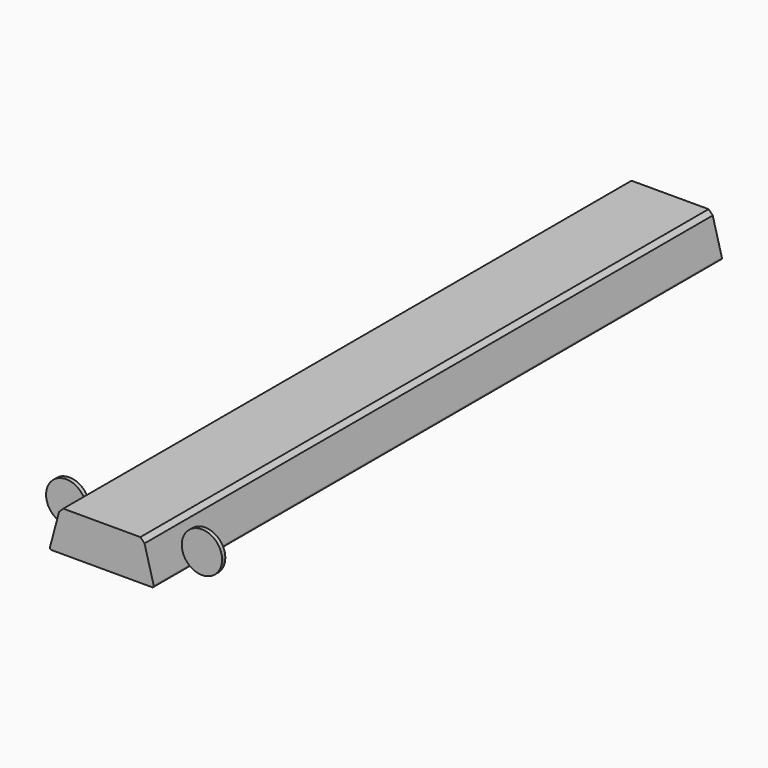
from build123d import *

# Parameters (mm, degrees)
F1_DEPTH = 223.774
F3_R     = 6.35
F4_DEPTH = 1.27


with BuildPart() as f1:
    # F0 (on Front) → F1 (new body)
    with BuildSketch(Plane.XZ):
        with BuildLine():
            ThreePointArc((0.1713481696, 0.6394800749), (0.2590149925, 0.1987491941), (0.6620384894, 0))
            Line((0.6620384894, 0), (32.3579615106, 0))
            ThreePointArc((32.3579615106, 0), (32.7609850075, 0.1987491941), (32.8486518304, 0.6394800749))
            Line((32.8486518304, 0.6394800749), (29.9709525495, 11.3792))
            Line((29.9709525495, 11.3792), (28.6501525495, 12.7))
            Line((28.6501525495, 12.7), (4.3698474505, 12.7))
            Line((4.3698474505, 12.7), (3.0490474505, 11.3792))
            Line((3.0490474505, 11.3792), (0.1713481696, 0.6394800749))
        make_face()
    extrude(amount=F1_DEPTH)

    # F3 (on offset) → F4 (join)
    with BuildSketch(Plane.XZ.offset(211.074)):
        with Locations((37.8925263737, 6.35)):
            Circle(F3_R)
        with Locations((-4.8725263737, 6.35)):
            Circle(F3_R)
    extrude(amount=-F4_DEPTH)


solid = f1.part
